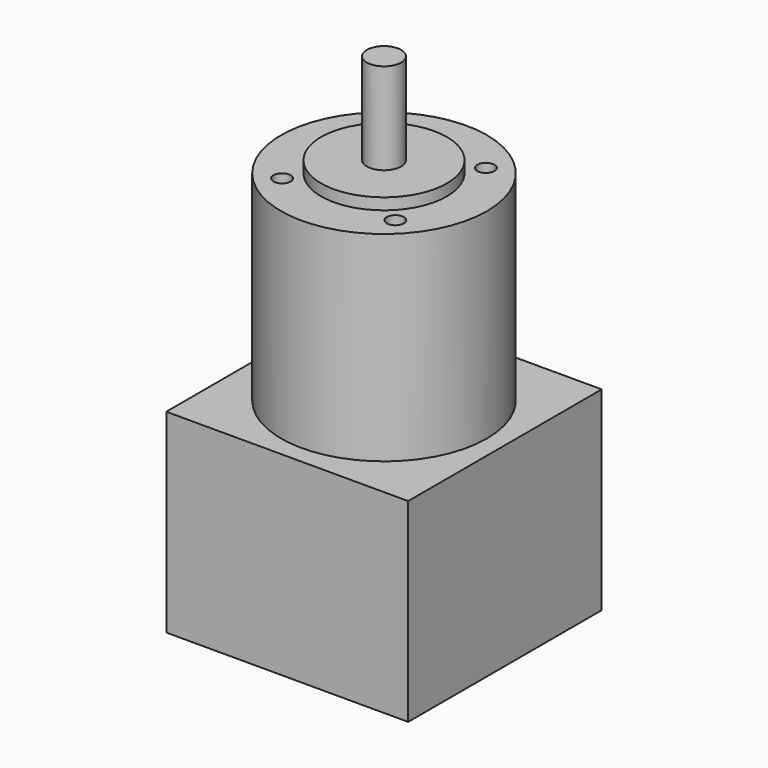
from build123d import *

# Parameters (mm, degrees)
SKETCH_R     = 18
PAD_DEPTH    = 35
SKETCH001_W  = 42.3
SKETCH001_H  = 42.3
PAD001_DEPTH = 34
SKETCH002_R  = 11
PAD002_DEPTH = 2
SKETCH003_R  = 3
PAD003_DEPTH = 18
SKETCH004_R  = 1.5
POCKET_DEPTH = 5


with BuildPart() as part:
    # Sketch → Pad (new body)
    with BuildSketch(Plane.XY):
        Circle(SKETCH_R)
    extrude(amount=-PAD_DEPTH)

    # Sketch001 → Pad001 (join)
    with BuildSketch(Plane.XY.offset(-35)):
        Rectangle(SKETCH001_W, SKETCH001_H)
    extrude(amount=-PAD001_DEPTH)

    # Sketch002 → Pad002 (join)
    with BuildSketch(Plane.XY):
        Circle(SKETCH002_R)
    extrude(amount=PAD002_DEPTH)

    # Sketch003 → Pad003 (join)
    with BuildSketch(Plane.XY):
        Circle(SKETCH003_R)
    extrude(amount=PAD003_DEPTH)

    # Sketch004 → Pocket (cut)
    with BuildSketch(Plane.XY):
        with Locations((-9.899495, 9.899495)):
            Circle(SKETCH004_R)
        with Locations((9.899495, 9.899495)):
            Circle(SKETCH004_R)
        with Locations((9.899495, -9.899495)):
            Circle(SKETCH004_R)
        with Locations((-9.899495, -9.899495)):
            Circle(SKETCH004_R)
    extrude(amount=-POCKET_DEPTH, mode=Mode.SUBTRACT)


solid = part.part
